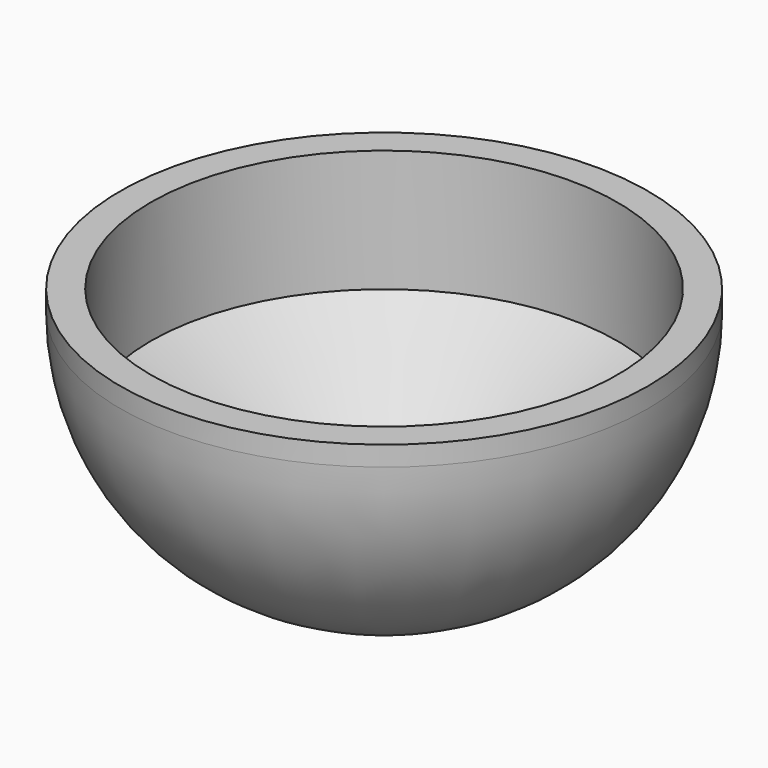
from build123d import *

# Parameters (mm, degrees)
F0_R     = 109.855
F1_DEPTH = 109.855
F3_D     = 194.31
F3_DEPTH = 50.8
F3_TIP   = 58.3766134416
F4_R     = 101.6


with BuildPart() as f1:
    # F0 (on Top) → F1 (new body)
    with BuildSketch(Plane.XY):
        Circle(F0_R)
    extrude(amount=F1_DEPTH)

    # F3
    with Locations(Plane.XY.offset(109.855)):
        with Locations((0, 0)):
            Hole(F3_D / 2, depth=F3_DEPTH)
            with Locations((0, 0, -(F3_DEPTH + F3_TIP / 2))):  # 118° drill point
                Cone(0, F3_D / 2, F3_TIP, mode=Mode.SUBTRACT)

    # F4
    f4_edges = [f1.edges().sort_by_distance(p)[0] for p in [
        (-109.855, 0, 0),
    ]]
    fillet(f4_edges, radius=F4_R)


solid = f1.part
